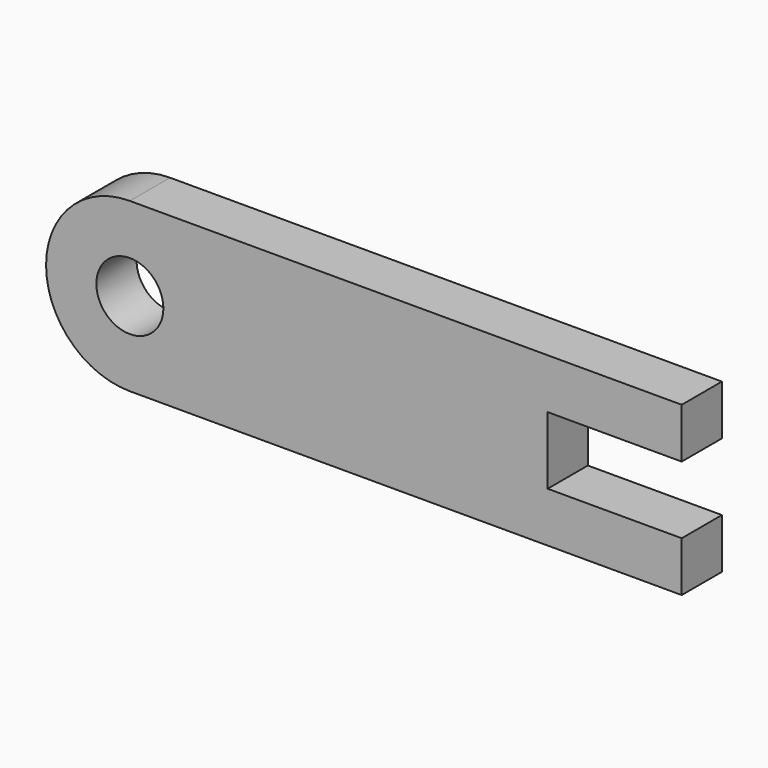
from build123d import *

# Parameters (mm, degrees)
F0_R     = 6.35
F1_DEPTH = 9.525


with BuildPart() as f1:
    # F0 (on Front) → F1 (new body)
    with BuildSketch(Plane.XZ):
        with BuildLine():
            ThreePointArc((-61.052873, 16.63766), (-76.927873, 0.76266), (-61.052873, -15.11234))
            Line((-61.052873, -15.11234), (43.515957, -15.11234))
            Line((43.515957, -15.11234), (43.515957, -5.628574))
            Line((43.515957, -5.628574), (18.115957, -5.628574))
            Line((18.115957, -5.628574), (18.115957, 7.153894))
            Line((18.115957, 7.153894), (43.515957, 7.153894))
            Line((43.515957, 7.153894), (43.515957, 16.63766))
            Line((43.515957, 16.63766), (18.115957, 16.63766))
            Line((18.115957, 16.63766), (-61.052873, 16.63766))
        make_face()
        with Locations((-61.052873, 0.76266)):
            Circle(F0_R, mode=Mode.SUBTRACT)
    extrude(amount=-F1_DEPTH)


solid = f1.part
